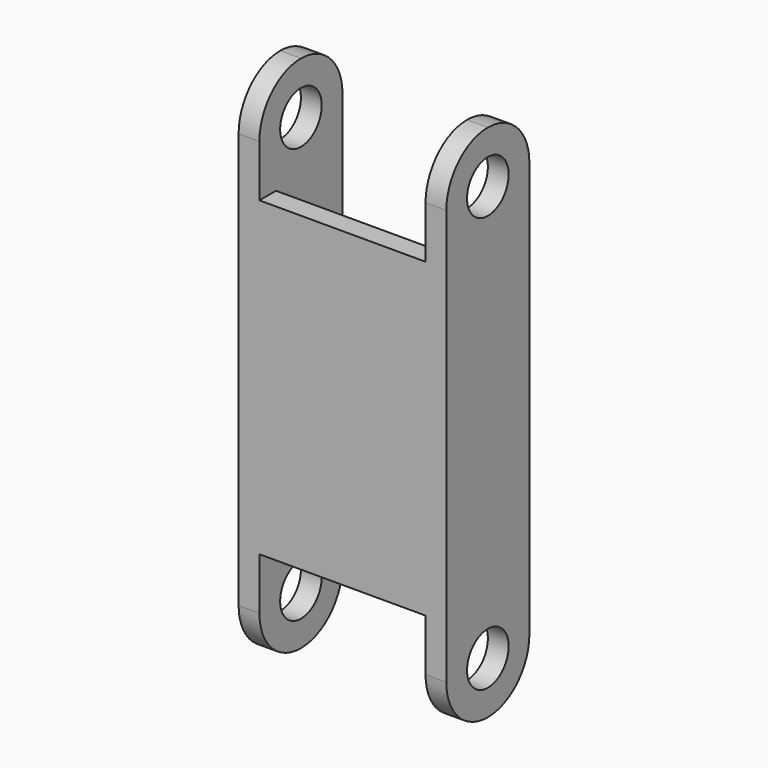
from build123d import *

# Parameters (mm, degrees)
F1_DEPTH  = 5
F3_DEPTH  = 25
F5_DEPTH  = 25
F6_R      = 2.5
F7_DEPTH  = 25
F8_R      = 2.5
F9_DEPTH  = 25
F10_W     = 16
F10_H     = 30
F11_DEPTH = 2
F13_R     = 2.5
F14_DEPTH = 10


with BuildPart() as f1:
    # F0 (on Front) → F1 (new body, symmetric)
    with BuildSketch(Plane.XZ):
        Polygon((0, 50), (0, 0), (2, 0), (2, 10), (2, 40), (2, 50), align=None)
    extrude(amount=F1_DEPTH, both=True)


with BuildPart() as f1b:
    # F0 (on Front) → F1, piece 2 (new body, symmetric)
    with BuildSketch(Plane.XZ):
        Polygon((18, 40), (18, 10), (18, 0), (20, 0), (20, 50), (18, 50), align=None)
    extrude(amount=F1_DEPTH, both=True)


with BuildPart() as f3_tool:
    # F2 (on face) → F3 (new body)
    with BuildSketch(Plane(origin=(0, 0, 0), x_dir=(0, -1, 0), z_dir=(-1, 0, 0))):
        with BuildLine():
            ThreePointArc((5, 5), (3.5355339059, 1.4644660941), (0, 0))
            Line((0, 0), (5, 0))
            Line((5, 0), (5, 5))
        make_face()
        with BuildLine():
            ThreePointArc((0, 0), (-3.5355339059, 1.4644660941), (-5, 5))
            Line((-5, 5), (-5, 0))
            Line((-5, 0), (0, 0))
        make_face()
    extrude(amount=-F3_DEPTH)


with BuildPart() as f1_1:
    add(f1.part)

    # F3: cut by f3_tool
    add(f3_tool.part, mode=Mode.SUBTRACT)


with BuildPart() as f1b_1:
    add(f1b.part)

    # F3: cut by f3_tool
    add(f3_tool.part, mode=Mode.SUBTRACT)


with BuildPart() as f5_tool:
    # F4 (on face) → F5 (new body)
    with BuildSketch(Plane(origin=(0, 0, 0), x_dir=(0, -1, 0), z_dir=(-1, 0, 0))):
        with BuildLine():
            ThreePointArc((-5, 45), (-3.5355339059, 48.5355339059), (0, 50))
            Line((0, 50), (-5, 50))
            Line((-5, 50), (-5, 45))
        make_face()
        with BuildLine():
            ThreePointArc((0, 50), (3.5355339059, 48.5355339059), (5, 45))
            Line((5, 45), (5, 50))
            Line((5, 50), (0, 50))
        make_face()
    extrude(amount=-F5_DEPTH)


with BuildPart() as f1_2:
    add(f1_1.part)

    # F5: cut by f5_tool
    add(f5_tool.part, mode=Mode.SUBTRACT)


with BuildPart() as f1b_2:
    add(f1b_1.part)

    # F5: cut by f5_tool
    add(f5_tool.part, mode=Mode.SUBTRACT)


with BuildPart() as f7_tool:
    # F6 (on face) → F7 (new body)
    with BuildSketch(Plane(origin=(0, 0, 0), x_dir=(0, -1, 0), z_dir=(-1, 0, 0))):
        with Locations((0, 45)):
            Circle(F6_R)
    extrude(amount=-F7_DEPTH)


with BuildPart() as f1_3:
    add(f1_2.part)

    # F7: cut by f7_tool
    add(f7_tool.part, mode=Mode.SUBTRACT)


with BuildPart() as f1b_3:
    add(f1b_2.part)

    # F7: cut by f7_tool
    add(f7_tool.part, mode=Mode.SUBTRACT)


with BuildPart() as f9_tool:
    # F8 (on face) → F9 (new body)
    with BuildSketch(Plane(origin=(0, 0, 0), x_dir=(0, -1, 0), z_dir=(-1, 0, 0))):
        with Locations((0, 5)):
            Circle(F8_R)
    extrude(amount=-F9_DEPTH)


with BuildPart() as f1_4:
    add(f1_3.part)

    # F9: cut by f9_tool
    add(f9_tool.part, mode=Mode.SUBTRACT)


with BuildPart() as f1b_4:
    add(f1b_3.part)

    # F9: cut by f9_tool
    add(f9_tool.part, mode=Mode.SUBTRACT)


with BuildPart() as f11:
    # F10 (on face) → F11 (new body)
    with BuildSketch(Plane.XZ.offset(5)):
        with Locations((10, 25)):
            Rectangle(F10_W, F10_H)
    extrude(amount=-F11_DEPTH)


with BuildPart() as f1_5:
    add(f1_4.part)

    # F12: union F1b, F11
    add(f1b_4.part)
    add(f11.part)

    # F13 (on face) → F14 (cut)
    with BuildSketch(Plane.YZ.offset(20)):
        with BuildLine():
            ThreePointArc((-5, 45), (-3.5355339059, 48.5355339059), (0, 50))
            Line((0, 50), (-5, 50))
            Line((-5, 50), (-5, 45))
        make_face()
        with BuildLine():
            ThreePointArc((0, 50), (3.5355339059, 48.5355339059), (5, 45))
            Line((5, 45), (5, 50))
            Line((5, 50), (0, 50))
        make_face()
        with Locations((0, 45)):
            Circle(F13_R)
        with BuildLine():
            ThreePointArc((5, 5), (3.5355339059, 1.4644660941), (0, 0))
            Line((0, 0), (5, 0))
            Line((5, 0), (5, 5))
        make_face()
        with BuildLine():
            ThreePointArc((0, 0), (-3.5355339059, 1.4644660941), (-5, 5))
            Line((-5, 5), (-5, 0))
            Line((-5, 0), (0, 0))
        make_face()
        with Locations((0, 5)):
            Circle(F13_R)
    extrude(amount=-F14_DEPTH, mode=Mode.SUBTRACT)


solid = f1_5.part
